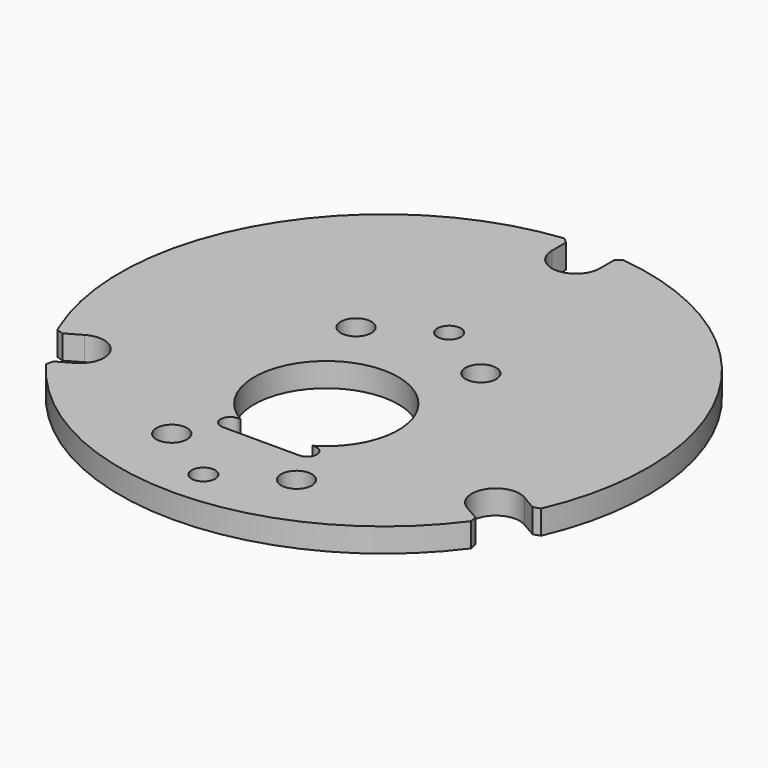
from build123d import *

# Parameters (mm, degrees)
F1_START      = -7
F0_R          = 2.45
F0_R_2        = 3.2
F0_R_3        = 15
F1_DEPTH      = 5
F3_DEPTH      = 40
F3_DEPTH_BACK = 40


with BuildPart() as f1:
    # F0 (on Top) → F1 (new body)
    with BuildSketch(Plane.XY.offset(F1_START)):
        with BuildLine():
            Line((48.9758001545, -7.5026887111), (50.3920186759, -7.0373422574))
            ThreePointArc((50.3920186759, -7.0373422574), (47.6313972081, 42.5), (6.1111111111, 69.65943945))
            Line((6.1111111111, 69.65943945), (5, 68.66563146))
            Line((5, 68.66563146), (5, 65))
            ThreePointArc((5, 65), (0, 60), (-5, 65))
            Line((-5, 65), (-5, 68.66563146))
            Line((-5, 68.66563146), (-6.1111111111, 69.65943945))
            ThreePointArc((-6.1111111111, 69.65943945), (-47.3563637716, 42.9709637004), (-50.8191344463, -6.0336771423))
            ThreePointArc((-50.8191344463, -6.0336771423), (-50.6080647229, -6.5365685522), (-50.3920186759, -7.0373422574))
            Line((-50.3920186759, -7.0373422574), (-48.9758001545, -7.5026887111))
            Line((-48.9758001545, -7.5026887111), (-45.8012701892, -5.6698729811))
            ThreePointArc((-45.8012701892, -5.6698729811), (-38.9711431703, -7.5), (-40.8012701892, -14.3301270189))
            Line((-40.8012701892, -14.3301270189), (-43.9758001545, -16.1629427489))
            Line((-43.9758001545, -16.1629427489), (-44.2809075648, -17.6220971926))
            ThreePointArc((-44.2809075648, -17.6220971926), (0, -40), (44.2809075648, -17.6220971926))
            Line((44.2809075648, -17.6220971926), (43.9758001545, -16.1629427489))
            Line((43.9758001545, -16.1629427489), (40.8012701892, -14.3301270189))
            ThreePointArc((40.8012701892, -14.3301270189), (38.9711431703, -7.5), (45.8012701892, -5.6698729811))
            Line((45.8012701892, -5.6698729811), (48.9758001545, -7.5026887111))
        make_face()
        with Locations((0, -32)):
            Circle(F0_R, mode=Mode.SUBTRACT)
        with Locations((-13, -24)):
            Circle(F0_R_2, mode=Mode.SUBTRACT)
        Circle(F0_R_3, mode=Mode.SUBTRACT)
        with Locations((13, -24)):
            Circle(F0_R_2, mode=Mode.SUBTRACT)
        with Locations((-13, 24)):
            Circle(F0_R_2, mode=Mode.SUBTRACT)
        with Locations((0, 32)):
            Circle(F0_R, mode=Mode.SUBTRACT)
        with Locations((13, 24)):
            Circle(F0_R_2, mode=Mode.SUBTRACT)
    extrude(amount=-F1_DEPTH)

    # F2 (on Top) → F3 (cut, two sides)
    with BuildSketch(Plane.XY) as f3_sk:
        with BuildLine():
            Line((0, -13), (-8, -13))
            ThreePointArc((-8, -13), (-10, -15), (-8, -17))
            Line((-8, -17), (0, -17))
            Line((0, -17), (8, -17))
            ThreePointArc((8, -17), (10, -15), (8, -13))
            Line((8, -13), (0, -13))
        make_face()
    extrude(amount=-F3_DEPTH, mode=Mode.SUBTRACT)
    extrude(f3_sk.sketch, amount=F3_DEPTH_BACK, mode=Mode.SUBTRACT)


solid = f1.part
